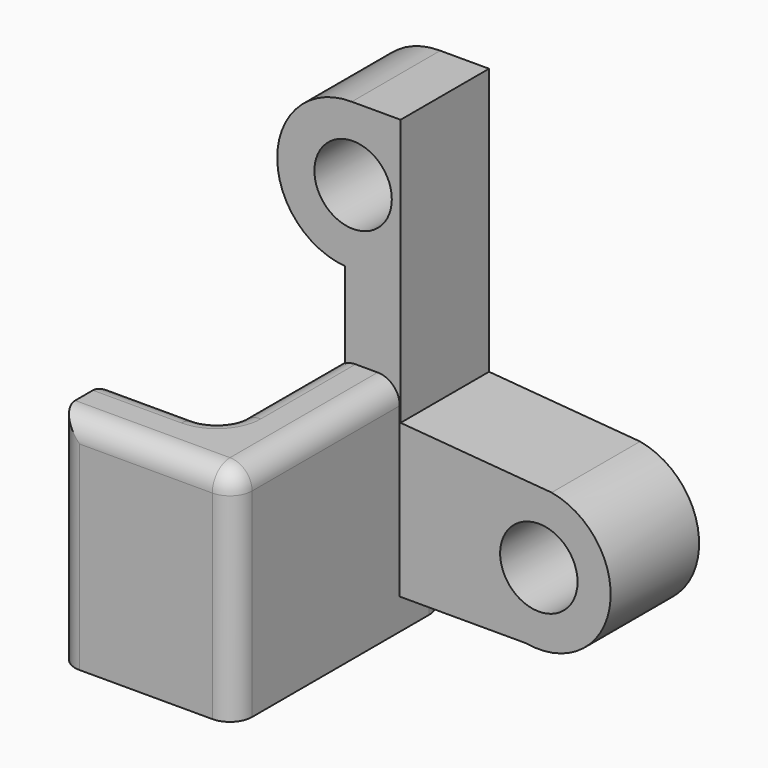
from build123d import *

# Parameters (mm, degrees)
CYLINDER053_R                     = 1.75
CYLINDER053_DEPTH                 = 15
CYLINDER052_R                     = 1.75
CYLINDER052_DEPTH                 = 15
EXTRUDE003_DEPTH                  = 10
FILLET021_R                       = 1
EXTRUDE004_DEPTH                  = 5
PART_MIRRORING006_PLACEMENT_ANGLE = 180


with BuildPart() as m3holds021:
    # Cylinder053 → Cylinder053 (new body)
    with BuildSketch(Plane(origin=(72, 0.25, -9), x_dir=(1, 0, 0), z_dir=(0, -1, 0))):
        Circle(CYLINDER053_R)
    extrude(amount=CYLINDER053_DEPTH)


with BuildPart() as fusion064:
    # Cylinder052 → Cylinder052 (new body)
    with BuildSketch(Plane(origin=(63.6, 0.25, 3.5), x_dir=(1, 0, 0), z_dir=(0, -1, 0))):
        Circle(CYLINDER052_R)
    extrude(amount=CYLINDER052_DEPTH)

    # Fusion064: union m3Holds021
    add(m3holds021.part)


with BuildPart() as fillet021:
    # Sketch005 → Extrude003 (new body)
    with BuildSketch(Plane.XY):
        Polygon((57.709053, -19.346786), (57.709053, -22.346786), (65.709053, -22.346786), (65.709053, -10.346786), (62.709053, -10.346786), (62.709053, -19.346786), align=None)
    extrude(amount=EXTRUDE003_DEPTH)


with BuildPart() as fillet021_1:
    # Extrude003 placement: moved
    add(fillet021.part.moved(Location((0, 0, -14))))

    # Fillet021
    fillet021_edges = [fillet021_1.edges().sort_by_distance(p)[0] for p in [
        (57.709053, -19.346786, -9),
        (57.709053, -22.346786, -9),
        (65.709053, -22.346786, -9),
        (61.709053, -22.346786, -4),
        (65.709053, -10.346786, -9),
        (65.709053, -16.346786, -4),
        (62.709053, -10.346786, -9),
        (64.209053, -10.346786, -4),
        (62.709053, -19.346786, -9),
        (62.709053, -14.846786, -4),
        (60.209053, -19.346786, -4),
    ]]
    fillet(fillet021_edges, radius=FILLET021_R)


with BuildPart() as fillet021_2:
    # Fillet021 placement: moved
    add(fillet021_1.part.moved(Location((0, 0, 0.4))))


with BuildPart() as extrude004:
    # Sketch006 → Extrude004 (new body)
    with BuildSketch(Plane.XZ):
        with BuildLine():
            ThreePointArc((14.771842, 0.154152), (17.827348, 3.62591), (14.461083, 6.797264))
            Line((14.461083, 6.797264), (12.252875, 6.797264))
            Line((12.252875, -5.267611), (12.252875, 6.797264))
            Line((5.422805, -5.82309), (12.252875, -5.267611))
            ThreePointArc((5.422805, -5.82309), (2.802341, -9.576998), (6.556249, -12.197462))
            Line((6.556249, -12.197462), (14.771842, -12.197462))
            Line((14.771842, -12.197462), (14.771842, 0.154152))
        make_face()
    extrude(amount=EXTRUDE004_DEPTH)


with BuildPart() as extrude004_1:
    # Extrude004 placement: moved
    add(extrude004.part.moved(Location((0, -8, 0))))


with BuildPart() as obj1:
    # Part__Mirroring006: instance of Extrude004
    add(extrude004_1.part.mirror(Plane(origin=(0, 0, 0), x_dir=(0, 1, 0), z_dir=(0, 0, 1))))


with BuildPart() as obj1_1:
    # Part__Mirroring006 placement: moved
    add(obj1.part.moved(Location((78, 0, 0))).rotate(Axis((78, 0, 0), (0, 1, 0)), PART_MIRRORING006_PLACEMENT_ANGLE))

    # Fusion041: union Fillet021
    add(fillet021_2.part)

    # Cut014: cut Fusion064
    add(fusion064.part, mode=Mode.SUBTRACT)


solid = obj1_1.part
